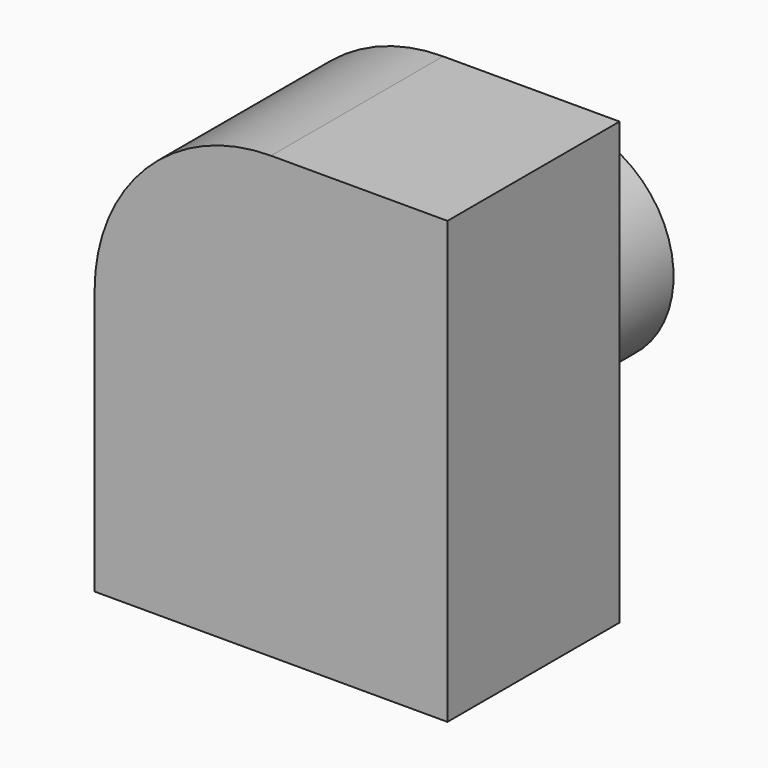
from build123d import *

# Parameters (mm, degrees)
F1_DEPTH = 61.9365051389
F2_R     = 29.6414431948
F3_DEPTH = 44.7673946619


with BuildPart() as f1:
    # F0 (on Front) → F1 (new body)
    with BuildSketch(Plane.XZ):
        with BuildLine():
            Line((86.4637133837, 104.3530513048), (35.6637133837, 104.3530513048))
            ThreePointArc((35.6637133837, 104.3530513048), (-0.2573111006, 89.4740757891), (-15.1362866163, 53.5530513048))
            Line((-15.1362866163, 53.5530513048), (-15.1362866163, -22.6469486952))
            Line((-15.1362866163, -22.6469486952), (86.4637133837, -22.6469486952))
            Line((86.4637133837, -22.6469486952), (86.4637133837, 104.3530513048))
        make_face()
    extrude(amount=F1_DEPTH)

    # F2 (on face) → F3 (join)
    with BuildSketch(Plane(origin=(0, 0, 0), x_dir=(-1, 0, 0), z_dir=(0, 1, 0))):
        with Locations((-36.5680158138, 40.3463989496)):
            Circle(F2_R)
    extrude(amount=F3_DEPTH)


solid = f1.part
